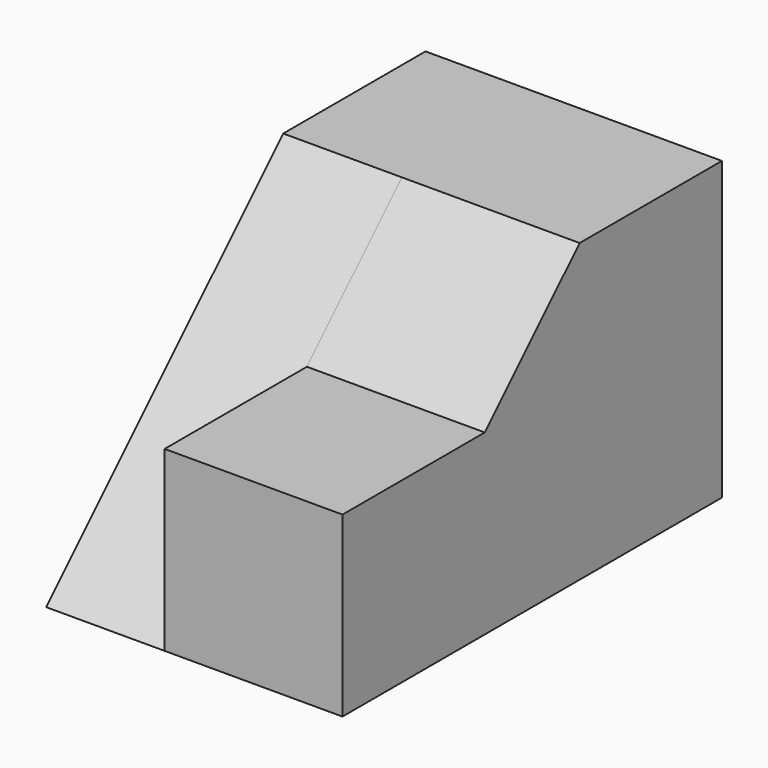
from build123d import *

# Parameters (mm, degrees)
F0_W     = 31.75
F0_H     = 31.7500009309
F1_DEPTH = 50.8
F3_DEPTH = 12.7
F5_DEPTH = 19.051


with BuildPart() as f1:
    # F0 (on Front) → F1 (new body)
    with BuildSketch(Plane.XZ):
        with Locations((-42.9199375212, 31.461219769)):
            Rectangle(F0_W, F0_H)
    extrude(amount=F1_DEPTH)

    # F2 (on face) → F3 (cut)
    with BuildSketch(Plane(origin=(-58.7949375212, 0, 0), x_dir=(0, -1, 0), z_dir=(-1, 0, 0))):
        Polygon((50.8, 47.3362202344), (19.05, 47.3362202344), (50.8, 15.5862193035), align=None)
    extrude(amount=-F3_DEPTH, mode=Mode.SUBTRACT)

    # F4 (on face) → F5 (cut, through all)
    with BuildSketch(Plane(origin=(-46.0949375212, 0, 0), x_dir=(0, -1, 0), z_dir=(-1, 0, 0))):
        Polygon((19.05, 47.3362202344), (31.75, 34.6362198621), (50.8, 34.6362198621), (50.8, 47.3362202344), align=None)
    extrude(amount=-F5_DEPTH, mode=Mode.SUBTRACT)


solid = f1.part
